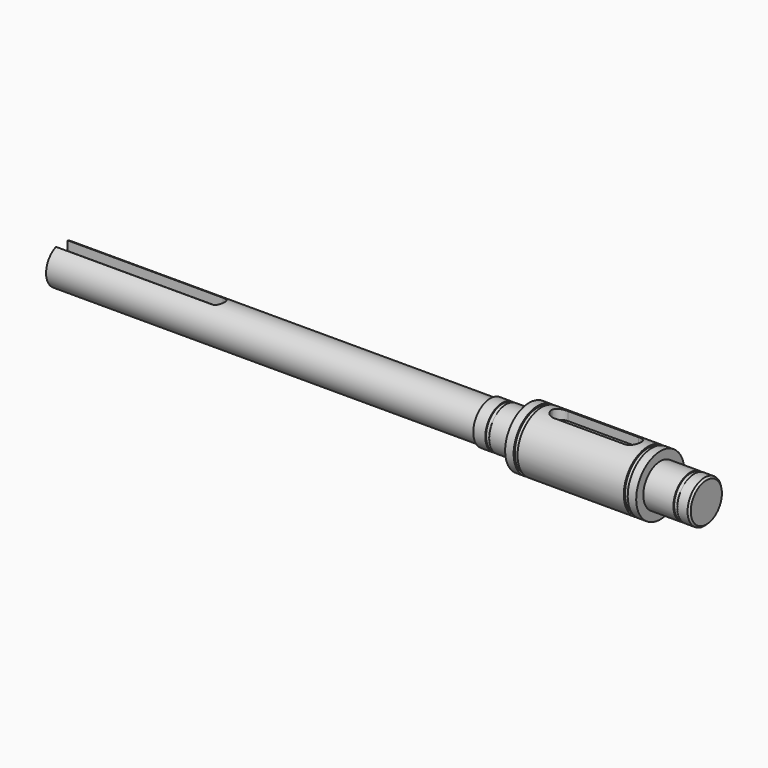
from build123d import *

# Parameters (mm, degrees)
F4_DEPTH = 3
F7_DEPTH = 3
F8_R     = 2.1
F9_DEPTH = 7
F10_SIZE = 0.5


with BuildPart() as f1:
    # F0 (on Front) → F1 (revolve)
    with BuildSketch(Plane.XZ):
        Polygon((0, 5.5), (0, 0), (182, 0), (182, 6), (178.6, 6), (178.6, 5.75), (177.5, 5.75), (177.5, 6), (169, 6), (169, 8.5), (166.6, 8.5), (166.6, 8.1), (165.5, 8.1), (165.5, 8.5), (135.5, 8.5), (135.5, 8.1), (134.4, 8.1), (134.4, 8.5), (132, 8.5), (132, 6), (125.5, 6), (125.5, 5.75), (124.4, 5.75), (124.4, 6), (121, 6), (121, 5.5), align=None)
    revolve(axis=Axis((91, 0, 0), (1, 0, 0)))

    # F3 (on offset) → F4 (cut)
    with BuildSketch(Plane.XY.offset(5.5)):
        with BuildLine():
            Line((0, 2), (0, -2))
            Line((0, -2), (44, -2))
            ThreePointArc((44, -2), (45.414214, -1.414214), (46, 0))
            ThreePointArc((46, 0), (45.414214, 1.414214), (44, 2))
            Line((44, 2), (0, 2))
        make_face()
    extrude(amount=-F4_DEPTH, mode=Mode.SUBTRACT)

    # F6 (on offset) → F7 (cut)
    with BuildSketch(Plane.XY.offset(8.5)):
        with BuildLine():
            ThreePointArc((138, 0.5), (138.732233, -1.267767), (140.5, -2))
            Line((140.5, -2), (160.5, -2))
            ThreePointArc((160.5, -2), (162.267767, -1.267767), (163, 0.5))
            ThreePointArc((163, 0.5), (162.267767, 2.267767), (160.5, 3))
            Line((160.5, 3), (140.5, 3))
            ThreePointArc((140.5, 3), (138.732233, 2.267767), (138, 0.5))
        make_face()
    extrude(amount=-F7_DEPTH, mode=Mode.SUBTRACT)

    # F8 (on face) → F9 (cut)
    with BuildSketch(Plane(origin=(0, 0, 0), x_dir=(0, -1, 0), z_dir=(-1, 0, 0))):
        Circle(F8_R)
    extrude(amount=-F9_DEPTH, mode=Mode.SUBTRACT)

    # F10
    f10_edges = [f1.edges().sort_by_distance(p)[0] for p in [
        (182, 0, -6),
    ]]
    chamfer(f10_edges, length=F10_SIZE)


solid = f1.part
